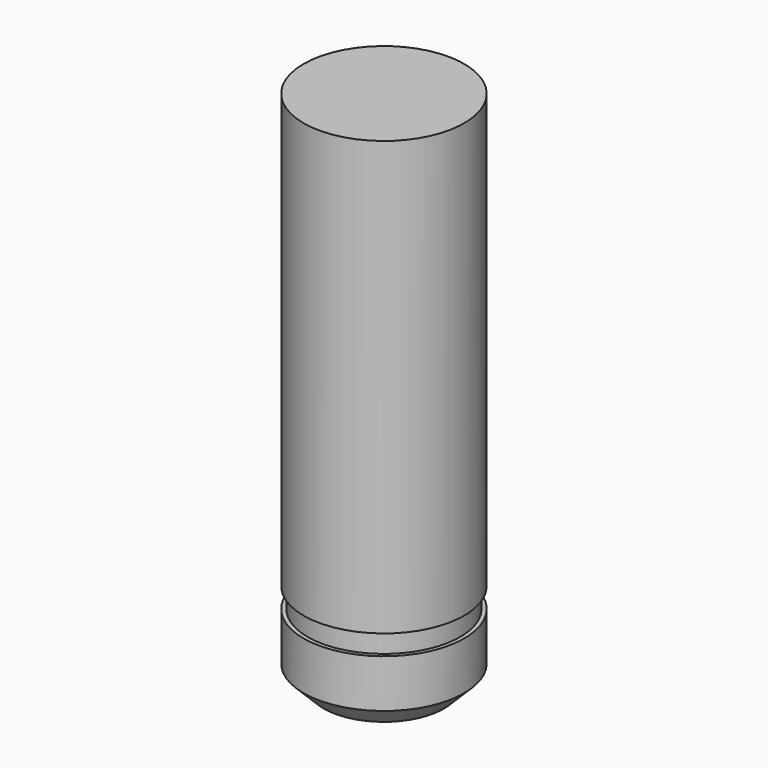
from build123d import *

# Parameters (mm, degrees)
F2_SIZE = 0.5


with BuildPart() as f1:
    # F0 (on Front) → F1 (revolve)
    with BuildSketch(Plane.XZ):
        Polygon((-2, 0), (0, 0), (0, 13), (-2, 13), (-2, 2.2), (-1.9, 2.2), (-1.9, 1.7), (-2, 1.7), align=None)
    revolve(axis=Axis((0, 0, 6.5), (0, 0, -1)))

    # F2
    f2_edges = [f1.edges().sort_by_distance(p)[0] for p in [
        (2, 0, 0),
    ]]
    chamfer(f2_edges, length=F2_SIZE)


solid = f1.part
